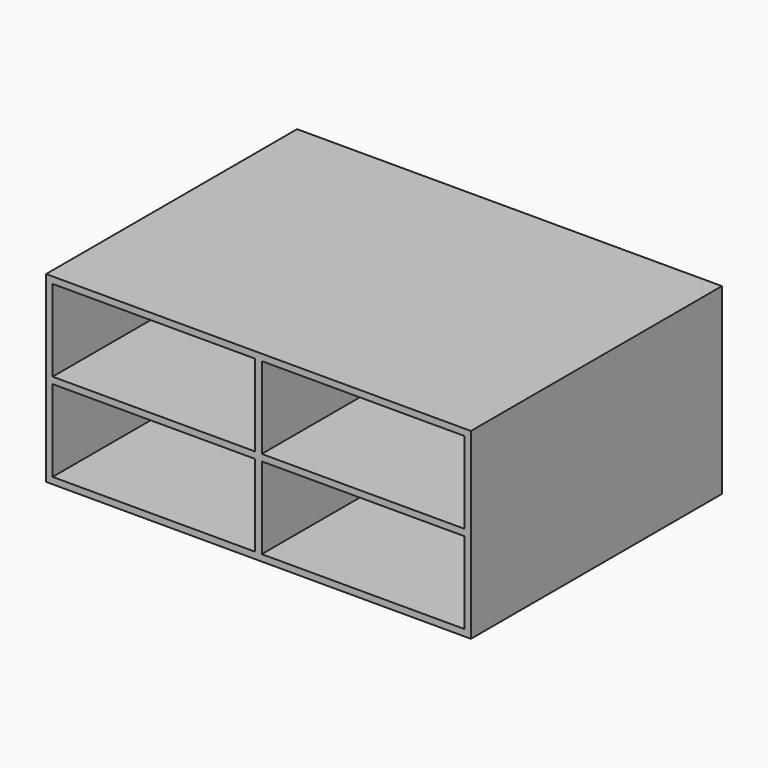
from build123d import *

# Parameters (mm, degrees)
F0_W     = 206.375
F0_H     = 88.9
F0_W_2   = 98.425
F0_H_2   = 39.6875
F1_DEPTH = 3.175
F2_DEPTH = 152.4


with BuildPart() as f1:
    # F0 (on Front) → F1 (new body)
    with BuildSketch(Plane.XZ):
        Rectangle(F0_W, F0_H)
        with Locations((-50.8, -21.43125)):
            Rectangle(F0_W_2, F0_H_2, mode=Mode.SUBTRACT)
        with Locations((50.8, -21.43125)):
            Rectangle(F0_W_2, F0_H_2, mode=Mode.SUBTRACT)
        with Locations((-50.8, 21.43125)):
            Rectangle(F0_W_2, F0_H_2, mode=Mode.SUBTRACT)
        with Locations((50.8, 21.43125)):
            Rectangle(F0_W_2, F0_H_2, mode=Mode.SUBTRACT)
        with Locations((-50.8, -21.43125)):
            Rectangle(F0_W_2, F0_H_2)
        with Locations((-50.8, 21.43125)):
            Rectangle(F0_W_2, F0_H_2)
        with Locations((50.8, 21.43125)):
            Rectangle(F0_W_2, F0_H_2)
        with Locations((50.8, -21.43125)):
            Rectangle(F0_W_2, F0_H_2)
    extrude(amount=F1_DEPTH)

    # F0 (on Front) → F2 (join)
    with BuildSketch(Plane.XZ):
        Rectangle(F0_W, F0_H)
        with Locations((-50.8, -21.43125)):
            Rectangle(F0_W_2, F0_H_2, mode=Mode.SUBTRACT)
        with Locations((50.8, -21.43125)):
            Rectangle(F0_W_2, F0_H_2, mode=Mode.SUBTRACT)
        with Locations((-50.8, 21.43125)):
            Rectangle(F0_W_2, F0_H_2, mode=Mode.SUBTRACT)
        with Locations((50.8, 21.43125)):
            Rectangle(F0_W_2, F0_H_2, mode=Mode.SUBTRACT)
    extrude(amount=F2_DEPTH)


solid = f1.part
